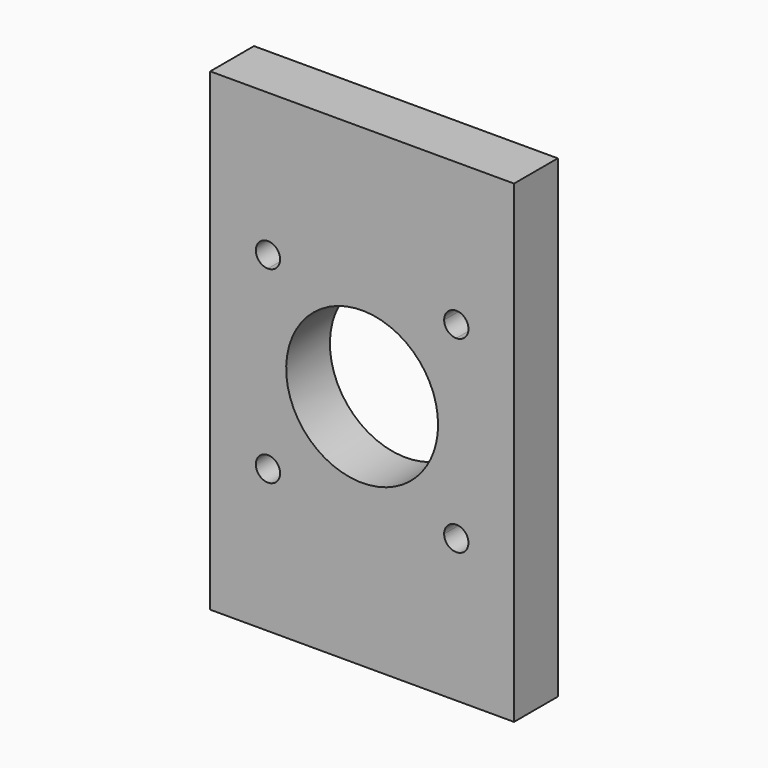
from build123d import *

# Parameters (mm, degrees)
F1_DEPTH = 9


with BuildPart() as f1:
    # F0 (on Front) → F1 (new body)
    with BuildSketch(Plane.XZ):
        with BuildLine():
            Line((34.9358974359, 23.5), (50, 0))
            Line((50, 0), (50, 78))
            Line((50, 78), (0, 78))
            Line((0, 78), (15.0641025641, 54.5))
            Line((15.0641025641, 54.5), (38.5, 54.5))
            ThreePointArc((38.5, 54.5), (40.5, 56.5), (42.5, 54.5))
            ThreePointArc((42.5, 54.5), (41.9142135624, 53.0857864376), (40.5, 52.5))
            Line((40.5, 52.5), (40.5, 25.5))
            ThreePointArc((40.5, 25.5), (41.9142135624, 24.9142135624), (42.5, 23.5))
            ThreePointArc((42.5, 23.5), (40.5, 21.5), (38.5, 23.5))
            Line((38.5, 23.5), (34.9358974359, 23.5))
        make_face()
        with BuildLine():
            Line((0, 78), (0, 0))
            Line((0, 0), (50, 0))
            Line((50, 0), (34.9358974359, 23.5))
            Line((34.9358974359, 23.5), (11.5, 23.5))
            ThreePointArc((11.5, 23.5), (8.0857864376, 22.0857864376), (9.5, 25.5))
            Line((9.5, 25.5), (9.5, 52.5))
            ThreePointArc((9.5, 52.5), (8.0857864376, 55.9142135624), (11.5, 54.5))
            Line((11.5, 54.5), (15.0641025641, 54.5))
            Line((15.0641025641, 54.5), (0, 78))
        make_face()
        with BuildLine():
            Line((31.745826434, 28.476510763), (34.9358974359, 23.5))
            Line((34.9358974359, 23.5), (38.5, 23.5))
            ThreePointArc((38.5, 23.5), (39.0857864376, 24.9142135624), (40.5, 25.5))
            Line((40.5, 25.5), (40.5, 52.5))
            ThreePointArc((40.5, 52.5), (39.0857864376, 53.0857864376), (38.5, 54.5))
            Line((38.5, 54.5), (15.0641025641, 54.5))
            Line((15.0641025641, 54.5), (18.254173566, 49.523489237))
            ThreePointArc((18.254173566, 49.523489237), (30.9969646312, 49.9675163648), (37.5, 39))
            ThreePointArc((37.5, 39), (35.9675163648, 33.0030353688), (31.745826434, 28.476510763))
        make_face()
        with BuildLine():
            Line((11.5, 23.5), (34.9358974359, 23.5))
            Line((34.9358974359, 23.5), (31.745826434, 28.476510763))
            ThreePointArc((31.745826434, 28.476510763), (14.476510763, 32.254173566), (18.254173566, 49.523489237))
            Line((18.254173566, 49.523489237), (15.0641025641, 54.5))
            Line((15.0641025641, 54.5), (11.5, 54.5))
            ThreePointArc((11.5, 54.5), (10.9142135624, 53.0857864376), (9.5, 52.5))
            Line((9.5, 52.5), (9.5, 25.5))
            ThreePointArc((9.5, 25.5), (10.9142135624, 24.9142135624), (11.5, 23.5))
        make_face()
    extrude(amount=F1_DEPTH)


solid = f1.part
